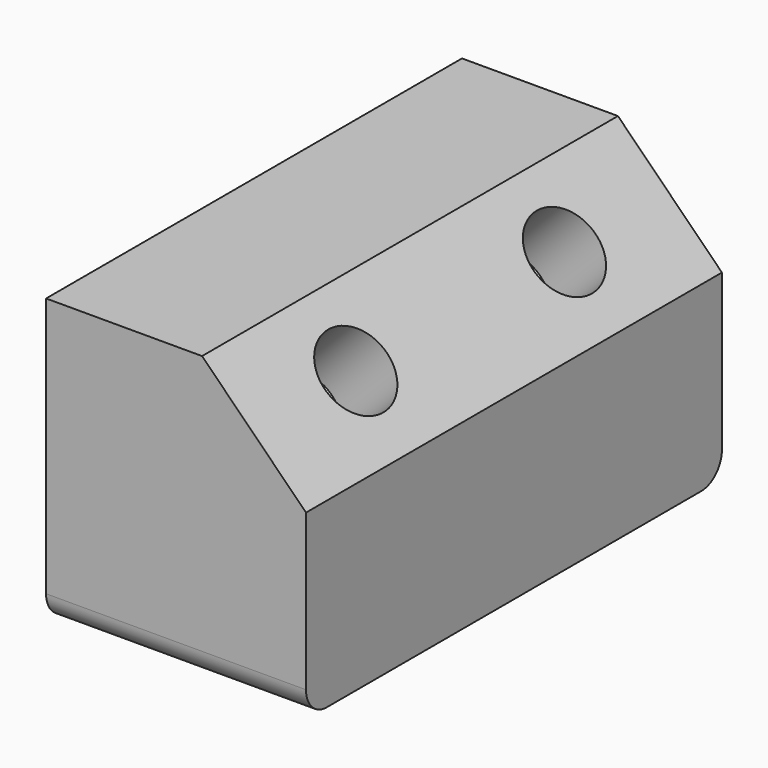
from build123d import *

# Parameters (mm, degrees)
F0_W     = 50
F0_H     = 100
F1_DEPTH = 55
F2_SIZE  = 20
F4_D     = 15
F4_DEPTH = 15
F4_TIP   = 4.5064546427
F6_D     = 15
F6_DEPTH = 15
F6_TIP   = 4.5064546427
F8_R     = 5
F9_R     = 5


with BuildPart() as f1:
    # F0 (on Top) → F1 (new body)
    with BuildSketch(Plane.XY):
        with Locations((25, 50)):
            Rectangle(F0_W, F0_H)
    extrude(amount=F1_DEPTH)

    # F2
    f2_edges = [f1.edges().sort_by_distance(p)[0] for p in [
        (50, 50, 55),
    ]]
    chamfer(f2_edges, length=F2_SIZE)

    # F4
    with Locations(Plane(origin=(42.5, 0, 42.5), x_dir=(0.7071067812, 0, -0.7071067812), z_dir=(0.7071067812, 0, 0.7071067812))):
        with Locations((-4.1437726468, 25)):
            Hole(F4_D / 2, depth=F4_DEPTH)
            with Locations((0, 0, -(F4_DEPTH + F4_TIP / 2))):  # 118° drill point
                Cone(0, F4_D / 2, F4_TIP, mode=Mode.SUBTRACT)

    # F6
    with Locations(Plane(origin=(42.5, 0, 42.5), x_dir=(0.7071067812, 0, -0.7071067812), z_dir=(0.7071067812, 0, 0.7071067812))):
        with Locations((-3.94243747, 75)):
            Hole(F6_D / 2, depth=F6_DEPTH)
            with Locations((0, 0, -(F6_DEPTH + F6_TIP / 2))):  # 118° drill point
                Cone(0, F6_D / 2, F6_TIP, mode=Mode.SUBTRACT)

    # F8
    f8_edges = [f1.edges().sort_by_distance(p)[0] for p in [
        (25, 100, 0),
    ]]
    fillet(f8_edges, radius=F8_R)

    # F9
    f9_edges = [f1.edges().sort_by_distance(p)[0] for p in [
        (25, 0, 0),
    ]]
    fillet(f9_edges, radius=F9_R)


solid = f1.part
